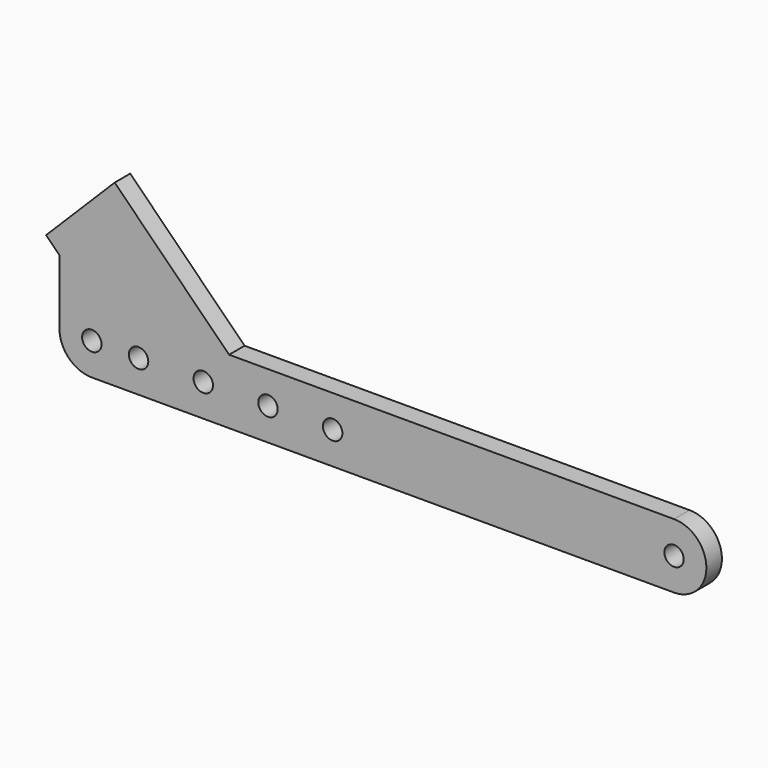
from build123d import *

# Parameters (mm, degrees)
F0_R     = 1.5
F1_DEPTH = 3


with BuildPart() as f1:
    # F0 (on Front) → F1 (new body)
    with BuildSketch(Plane.XZ):
        with BuildLine():
            Line((0, -5), (42.227316, -5))
            Line((42.227316, -5), (90, -5))
            ThreePointArc((90, -5), (95, 0), (90, 5))
            Line((90, 5), (45, 5))
            Line((45, 5), (21.213203, 5))
            Line((21.213203, 5), (3.535534, 22.67767))
            Line((3.535534, 22.67767), (-7.071068, 12.071068))
            Line((-7.071068, 12.071068), (-5, 10))
            Line((-5, 10), (-5, 0))
            ThreePointArc((-5, 0), (-3.535534, -3.535534), (0, -5))
        make_face()
        Circle(F0_R, mode=Mode.SUBTRACT)
        with Locations((7.227316, 0)):
            Circle(F0_R, mode=Mode.SUBTRACT)
        with Locations((17.227316, 0)):
            Circle(F0_R, mode=Mode.SUBTRACT)
        with Locations((27.227316, 0)):
            Circle(F0_R, mode=Mode.SUBTRACT)
        with Locations((37.227316, 0)):
            Circle(F0_R, mode=Mode.SUBTRACT)
        with Locations((90, 0)):
            Circle(F0_R, mode=Mode.SUBTRACT)
    extrude(amount=F1_DEPTH)


solid = f1.part
